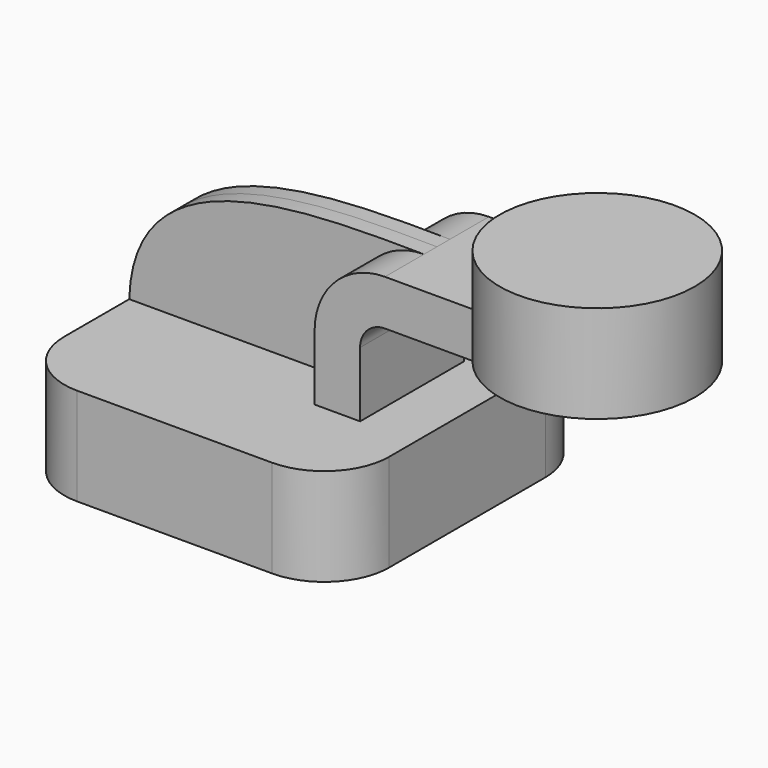
from build123d import *

# Parameters (mm, degrees)
F1_DEPTH = 63.5
F2_DEPTH = 6.35
F0_W     = 38.1
F0_H     = 17.78
F3_DEPTH = 25.4
F5_R     = 25.4


with BuildPart() as f1:
    # F0 (on Front) → F1 (new body, symmetric)
    with BuildSketch(Plane.XZ):
        Polygon((63.5, -19.05), (63.5, 19.05), (41.950526, 19.05), (24.170526, 19.05), (-63.5, 19.05), (-63.5, -19.05), align=None)
    extrude(amount=F1_DEPTH, both=True)

    # F0 (on Front) → F2 (join, symmetric)
    with BuildSketch(Plane.XZ):
        with BuildLine():
            Line((-63.5, 19.05), (24.170526, 19.05))
            Line((24.170526, 19.05), (24.170526, 44.45))
            ThreePointArc((24.170526, 44.45), (32.219419, 63.881746), (51.651164, 71.930638))
            add(Edge.make_bspline(
                [(-63.5, 19.05), (-61.917547, 72.500213), (3.013055, 72.448058), (51.651164, 71.930638)],
                knots=[0, 0, 0, 0, 126.712874, 126.712874, 126.712874, 126.712874], degree=3))
        make_face()
    extrude(amount=F2_DEPTH, both=True)

    # F0 (on Front) → F3 (join, symmetric)
    with BuildSketch(Plane.XZ):
        with BuildLine():
            Line((24.170526, 19.05), (41.950526, 19.05))
            Line((41.950526, 19.05), (41.950526, 44.45))
            ThreePointArc((41.950526, 44.45), (44.791777, 51.309387), (51.651164, 54.150638))
            Line((51.651164, 54.150638), (76.2, 54.150638))
            Line((76.2, 54.150638), (76.2, 71.930638))
            Line((76.2, 71.930638), (51.651164, 71.930638))
            ThreePointArc((51.651164, 71.930638), (32.219419, 63.881746), (24.170526, 44.45))
            Line((24.170526, 44.45), (24.170526, 19.05))
        make_face()
        with Locations((95.25, 63.040638)):
            Rectangle(F0_W, F0_H)
        with Locations((95.25, 63.040638)):
            Rectangle(F0_W, F0_H)
    extrude(amount=F3_DEPTH, both=True)

    # F0 (on Front) → F4 (revolve)
    with BuildSketch(Plane.XZ):
        Polygon((114.3, 71.930638), (114.3, 54.150638), (114.3, 52.880638), (152.4, 52.880638), (152.4, 90.980638), (114.3, 90.980638), align=None)
    revolve(axis=Axis((114.3, 0, 71.930638), (0, 0, 1)))

    # F5
    f5_edges = [f1.edges().sort_by_distance(p)[0] for p in [
        (-63.5, -63.5, 0),
        (63.5, -63.5, 0),
        (-63.5, 63.5, 0),
        (63.5, 63.5, 0),
    ]]
    fillet(f5_edges, radius=F5_R)


solid = f1.part
